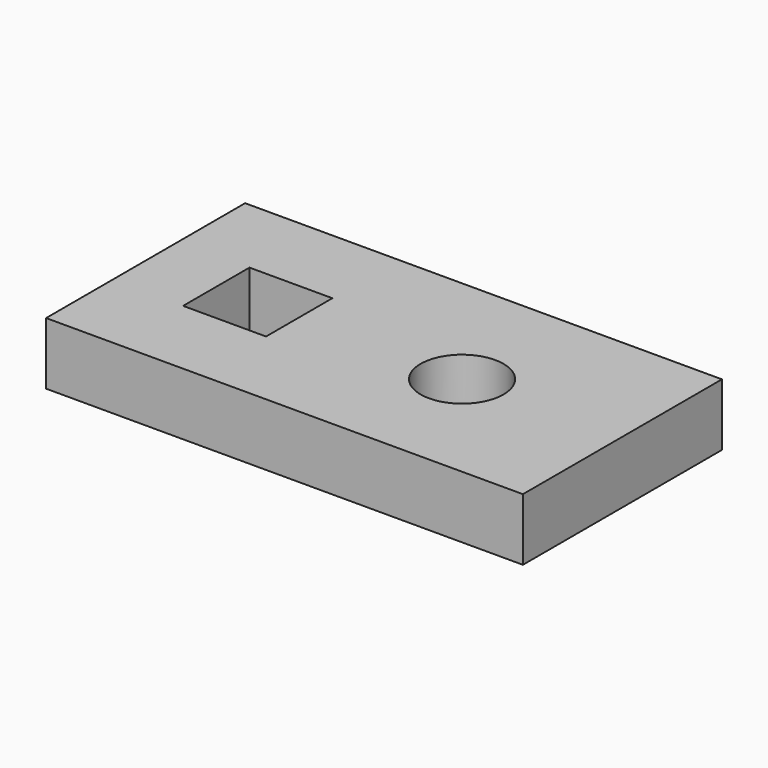
from build123d import *

# Parameters (mm, degrees)
F0_W     = 146.05
F0_H     = 19.05
F1_DEPTH = 76.2
F2_W     = 25.4
F2_H     = 25.4
F3_W     = 25.4
F3_H     = 25.4
F4_DEPTH = 25.4
F3_R     = 12.7
F5_DEPTH = 50.8


with BuildPart() as f1:
    # F0 (on Front) → F1 (new body)
    with BuildSketch(Plane.XZ):
        with Locations((28.526229, 9.525)):
            Rectangle(F0_W, F0_H)
    extrude(amount=F1_DEPTH)

    # F2 (on face) + F3 (on face) → F4 (cut)
    with BuildSketch(Plane.XY.offset(19.05)):
        with Locations((-10.144984, -38.1)):
            Rectangle(F2_W, F2_H)
    with BuildSketch(Plane.XY.offset(19.05)):
        with Locations((-10.144984, -38.1)):
            Rectangle(F3_W, F3_H)
    extrude(amount=-F4_DEPTH, mode=Mode.SUBTRACT)

    # F3 (on face) → F5 (cut)
    with BuildSketch(Plane.XY.offset(19.05)):
        with Locations((52.967045, -38.763795)):
            Circle(F3_R)
    extrude(amount=-F5_DEPTH, mode=Mode.SUBTRACT)


solid = f1.part
